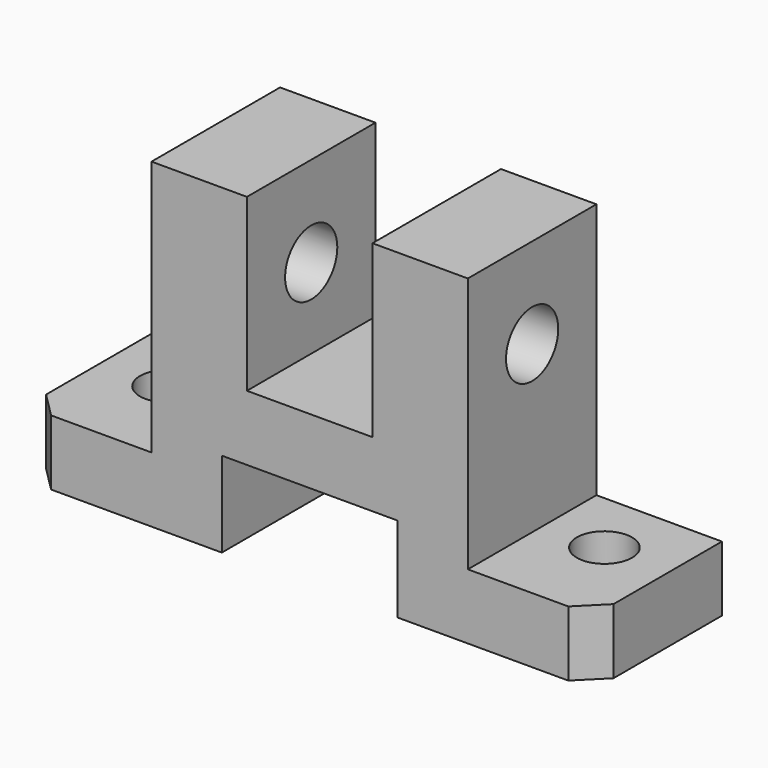
from build123d import *

# Parameters (mm, degrees)
F1_DEPTH = 32
F2_SIZE  = 5
F3_SIZE  = 5
F4_R     = 6.5
F5_DEPTH = 88.001
F6_R     = 5.5
F7_DEPTH = 13.001


with BuildPart() as f1:
    # F0 (on Front) → F1 (new body)
    with BuildSketch(Plane.XZ):
        Polygon((0, 13), (0, 0), (39, 0), (39, 17), (74, 17), (74, 0), (113, 0), (113, 13), (88, 13), (88, 64), (69, 64), (69, 30), (44, 30), (44, 64), (25, 64), (25, 13), align=None)
    extrude(amount=F1_DEPTH)

    # F2
    f2_edges = [f1.edges().sort_by_distance(p)[0] for p in [
        (113, -32, 6.5),
    ]]
    chamfer(f2_edges, length=F2_SIZE)

    # F3
    f3_edges = [f1.edges().sort_by_distance(p)[0] for p in [
        (0, -32, 6.5),
    ]]
    chamfer(f3_edges, length=F3_SIZE)

    # F4 (on face) → F5 (cut, through all)
    with BuildSketch(Plane.YZ.offset(88)):
        with Locations((-16, 46)):
            Circle(F4_R)
    extrude(amount=-F5_DEPTH, mode=Mode.SUBTRACT)

    # F6 (on face) → F7 (cut, through all)
    with BuildSketch(Plane.XY.offset(13)):
        with Locations((13, -13)):
            Circle(F6_R)
        with Locations((100, -13)):
            Circle(F6_R)
    extrude(amount=-F7_DEPTH, mode=Mode.SUBTRACT)


solid = f1.part
